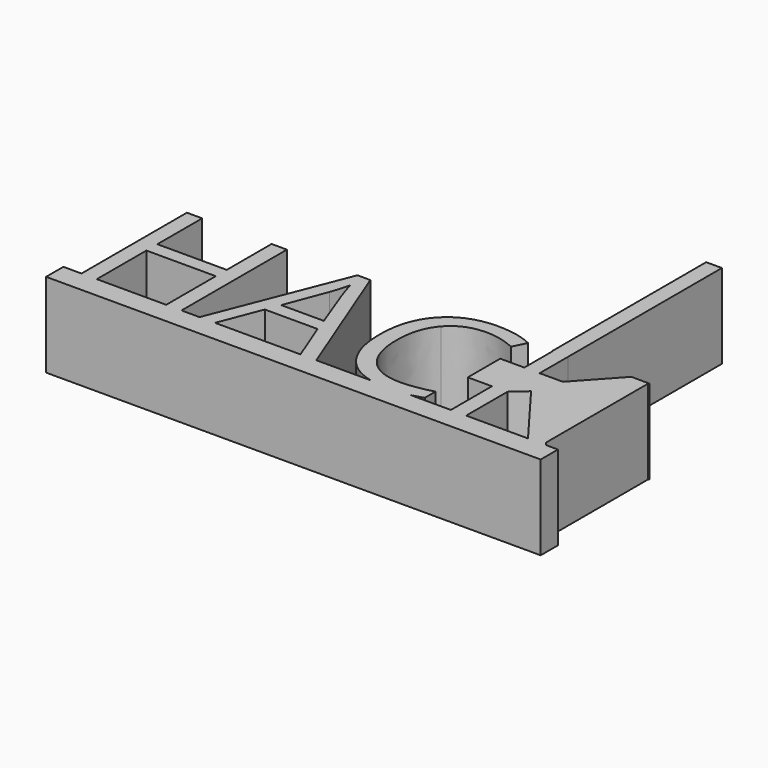
from build123d import *

# Parameters (mm, degrees)
F0_W     = 2.304975711
F0_H     = 7.7243503183
F0_W_2   = 3.6289574255
F0_H_2   = 6.098523736
F0_H_3   = 5.3181350231
F0_H_4   = 0.6922000066
F1_DEPTH = 12.7


with BuildPart() as f1:
    # F0 (on Top) → F1 (new body)
    with BuildSketch(Plane.XY):
        with BuildLine():
            Line((-34.5030121262, 0), (-37.2290474303, 0))
            Line((-37.2290474303, 0), (-37.2290474303, -3.256221069))
            Line((-37.2290474303, -3.256221069), (37.2290474303, -3.256221069))
            Line((37.2290474303, -3.256221069), (37.2290474303, 0))
            Line((37.2290474303, 0), (35.4276069029, 0))
            Line((35.4276069029, 0), (35.0221842527, 0))
            Line((35.0221842527, 0), (32.7145940604, 0))
            Line((32.7145940604, 0), (23.4078748053, 0))
            Line((23.4078748053, 0), (21.1028990943, 0))
            Line((21.1028990943, 0), (14.9383603664, 0))
            add(Edge.make_bspline(
                [(14.9383603664, 0), (13.4825928521, -0.2734716945), (11.6876593256, -0.2734716945)],
                knots=[0.406741787, 0.406741787, 0.406741787, 1, 1, 1], degree=2))
            add(Edge.make_bspline(
                [(11.6876593256, -0.2734716945), (10.2835431713, -0.2734716945), (9.0848653779, 0)],
                knots=[0, 0, 0, 0.3205826669, 0.3205826669, 0.3205826669], degree=2))
            Line((9.0848653779, 0), (0.8486304171, 0))
            Line((0.8486304171, 0), (-1.5388208843, 0))
            Line((-1.5388208843, 0), (-14.3963313476, 0))
            Line((-14.3963313476, 0), (-16.7316928024, 0))
            Line((-16.7316928024, 0), (-19.444705645, 0))
            Line((-19.444705645, 0), (-21.749681356, 0))
            Line((-21.749681356, 0), (-32.1980364151, 0))
            Line((-32.1980364151, 0), (-34.5030121262, 0))
        make_face()
        Polygon((-34.5030121262, 19.833209084), (-34.5030121262, 0), (-32.1980364151, 0), (-32.1980364151, 9.3327641783), (-21.749681356, 9.3327641783), (-21.749681356, 0), (-19.444705645, 0), (-19.444705645, 19.833209084), (-21.749681356, 19.833209084), (-21.749681356, 11.3946539386), (-32.1980364151, 11.3946539386), (-32.1980364151, 19.833209084), align=None)
        Polygon((35.0221842527, 0), (35.4276069029, 0), (35.0221842527, 0.5496391018), align=None)
        Polygon((-8.8921708927, 19.9156846744), (-16.7316928024, 0), (-14.3963313476, 0), (-11.9567901996, 6.3072122563), (-4.0087477761, 6.3072122563), (-1.5388208843, 0), (0.8486304171, 0), (-6.9518241077, 19.9156846744), align=None)
        with BuildLine():
            Line((-7.0342996981, 14.5287263743), (-4.7249831665, 8.3821244783))
            Line((-4.7249831665, 8.3821244783), (-11.1407159366, 8.3821244783))
            Line((-11.1407159366, 8.3821244783), (-8.8096953023, 14.5287263743))
            add(Edge.make_bspline(
                [(-7.9545536543, 17.3893271155), (-8.2540702721, 16.0870809511), (-8.8096953023, 14.5287263743)],
                knots=[0, 0, 0, 1, 1, 1], degree=2))
            add(Edge.make_bspline(
                [(-7.0342996981, 14.5287263743), (-7.4814042146, 15.6964071017), (-7.9545536543, 17.3893271155)],
                knots=[0, 0, 0, 1, 1, 1], degree=2))
        make_face(mode=Mode.SUBTRACT)
        Polygon((32.7145940604, 0), (35.0221842527, 0), (35.0221842527, 0.5496391018), (27.1540029383, 11.2166802962), (35.0221842527, 19.7187706114), (35.0221842527, 19.833209084), (32.4020549809, 19.833209084), (26.9062852626, 13.8228740543), (27.0378924906, 13.8228740543), (27.0378924906, 7.7243503183), (26.9108741687, 7.7243503183), align=None)
        Polygon((27.1540029383, 11.2166802962), (35.0221842527, 0.5496391018), (35.0221842527, 19.7187706114), align=None)
        Polygon((35.0221842527, 19.833209084), (35.0221842527, 19.7187706114), (35.1280902851, 19.833209084), align=None)
        with Locations((22.2553869498, 3.8621751592)):
            Rectangle(F0_W, F0_H)
        Polygon((25.4871278479, 9.6192583345), (26.9108741687, 7.7243503183), (27.0378924906, 7.7243503183), (27.0378924906, 13.8228740543), (26.9062852626, 13.8228740543), (23.4078748053, 9.9969097222), (23.4078748053, 13.8228740543), (21.1028990943, 13.8228740543), (21.1028990943, 7.7243503183), (23.4078748053, 7.7243503183), (23.4078748053, 7.7744096016), align=None)
        with BuildLine():
            add(Edge.make_bspline(
                [(9.0848653779, 0), (6.544483275, 0.579574096), (4.926831322, 2.3874513014)],
                knots=[0.3205826669, 0.3205826669, 0.3205826669, 1, 1, 1], degree=2))
            Line((9.0848653779, 0), (14.9383603664, 0))
            add(Edge.make_bspline(
                [(16.7751010079, 0.5035351836), (15.9364442822, 0.1874940174), (14.9383603664, 0)],
                knots=[0, 0, 0, 0.406741787, 0.406741787, 0.406741787], degree=2))
            Line((16.7751010079, 0.5035351836), (16.7751010079, 2.5220167384))
            add(Edge.make_bspline(
                [(12.03926579, 1.7753956042), (14.114178012, 1.7753956042), (16.7751010079, 2.5220167384)],
                knots=[0, 0, 0, 1, 1, 1], degree=2))
            add(Edge.make_bspline(
                [(6.8367923632, 3.9002272624), (8.6621074036, 1.7753956042), (12.03926579, 1.7753956042)],
                knots=[0, 0, 0, 1, 1, 1], degree=2))
            add(Edge.make_bspline(
                [(5.0114773227, 9.9144341317), (5.0114773227, 6.0250589207), (6.8367923632, 3.9002272624)],
                knots=[0, 0, 0, 1, 1, 1], degree=2))
            add(Edge.make_bspline(
                [(6.9040750817, 15.8765511545), (5.0114773227, 13.6996296496), (5.0114773227, 9.9144341317)],
                knots=[0, 0, 0, 1, 1, 1], degree=2))
            add(Edge.make_bspline(
                [(12.0653107133, 18.0534726593), (8.7966728406, 18.0534726593), (6.9040750817, 15.8765511545)],
                knots=[0, 0, 0, 1, 1, 1], degree=2))
            add(Edge.make_bspline(
                [(16.5710824422, 16.9986532662), (14.3181965777, 18.0534726593), (12.0653107133, 18.0534726593)],
                knots=[0, 0, 0, 1, 1, 1], degree=2))
            Line((16.5710824422, 16.9986532662), (17.5477670655, 18.9780674361))
            add(Edge.make_bspline(
                [(12.0956964571, 20.1153624196), (15.2124056106, 20.1153624196), (17.5477670655, 18.9780674361)],
                knots=[0, 0, 0, 1, 1, 1], degree=2))
            add(Edge.make_bspline(
                [(7.001743544, 18.8673765121), (9.1656425872, 20.1153624196), (12.0956964571, 20.1153624196)],
                knots=[0, 0, 0, 1, 1, 1], degree=2))
            add(Edge.make_bspline(
                [(3.6918678761, 15.3144148935), (4.8378445008, 17.6193906045), (7.001743544, 18.8673765121)],
                knots=[0, 0, 0, 1, 1, 1], degree=2))
            add(Edge.make_bspline(
                [(2.5458912514, 9.9448198756), (2.5458912514, 13.0094391825), (3.6918678761, 15.3144148935)],
                knots=[0, 0, 0, 1, 1, 1], degree=2))
            add(Edge.make_bspline(
                [(4.926831322, 2.3874513014), (2.5458912514, 5.0483742974), (2.5458912514, 9.9448198756)],
                knots=[0, 0, 0, 1, 1, 1], degree=2))
        make_face()
        with BuildLine():
            Line((14.9383603664, 0), (9.0848653779, 0))
            add(Edge.make_bspline(
                [(11.6876593256, -0.2734716945), (10.2835431713, -0.2734716945), (9.0848653779, 0)],
                knots=[0, 0, 0, 0.3205826669, 0.3205826669, 0.3205826669], degree=2))
            add(Edge.make_bspline(
                [(14.9383603664, 0), (13.4825928521, -0.2734716945), (11.6876593256, -0.2734716945)],
                knots=[0.406741787, 0.406741787, 0.406741787, 1, 1, 1], degree=2))
        make_face()
        with Locations((19.2884203816, 10.7736121863)):
            Rectangle(F0_W_2, F0_H_2)
        Polygon((23.4078748053, 9.9969097222), (26.9062852626, 13.8228740543), (23.4078748053, 13.8228740543), align=None)
        with Locations((22.2553869498, 16.4819415659)):
            Rectangle(F0_W, F0_H_3)
        with Locations((22.2553869498, 19.4871090807)):
            Rectangle(F0_W, F0_H_4)
        Polygon((21.039057523, 19.1410090774), (21.1028990943, 19.1410090774), (21.1028990943, 19.833209084), (23.4078748053, 19.833209084), (23.4078748053, 19.1410090774), (23.4089195728, 19.1410090774), (23.4089195728, 48.1270328164), (21.039057523, 48.1270328164), align=None)
    extrude(amount=F1_DEPTH)


solid = f1.part
